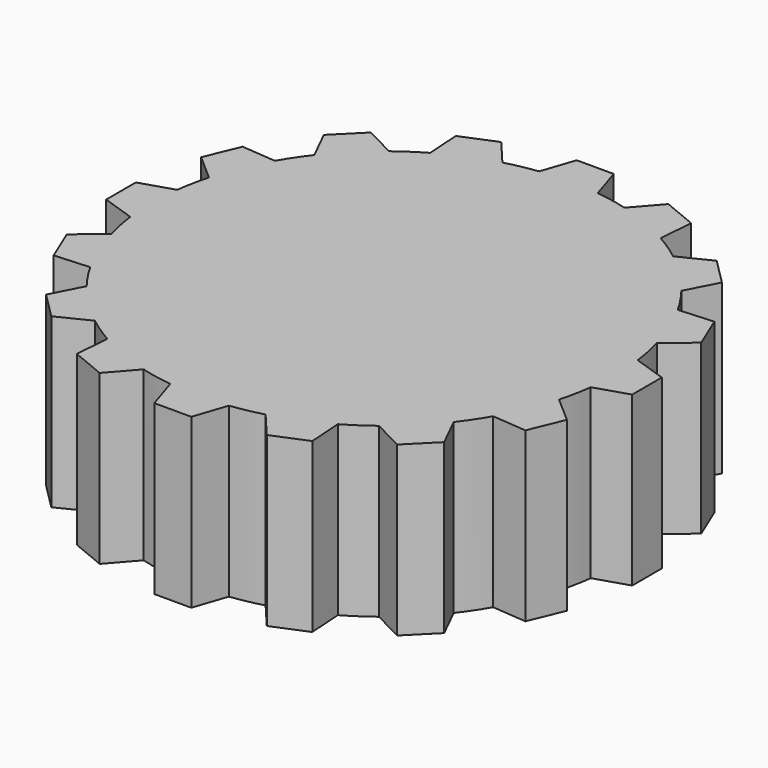
from build123d import *

# Parameters (mm, degrees)
F1_DEPTH = 18.1


with BuildPart() as f1:
    # F0 (on Top) → F1 (new body)
    with BuildSketch(Plane.XY):
        with BuildLine():
            ThreePointArc((24.797365, -3.176582), (24.94929, -1.591519), (25, 0))
            ThreePointArc((25, 0), (24.950482, 1.57272), (24.802124, 3.13921))
            ThreePointArc((24.802124, 3.13921), (24.5233, 4.858782), (24.125403, 6.554762))
            ThreePointArc((24.125403, 6.554762), (23.10419, 9.54968), (21.712851, 12.391614))
            ThreePointArc((21.712851, 12.391614), (20.7972, 13.87359), (19.780568, 15.288203))
            ThreePointArc((19.780568, 15.288203), (17.690984, 17.664345), (15.317994, 19.757507))
            ThreePointArc((15.317994, 19.757507), (13.904914, 20.776269), (12.42432, 21.694153))
            ThreePointArc((12.42432, 21.694153), (9.584486, 23.089773), (6.59111, 24.115498))
            ThreePointArc((6.59111, 24.115498), (4.895732, 24.51595), (3.176582, 24.797365))
            ThreePointArc((3.176582, 24.797365), (0.018837, 24.999993), (-3.13921, 24.802124))
            ThreePointArc((-3.13921, 24.802124), (-4.858782, 24.5233), (-6.554762, 24.125403))
            ThreePointArc((-6.554762, 24.125403), (-9.54968, 23.10419), (-12.391614, 21.712851))
            ThreePointArc((-12.391614, 21.712851), (-13.87359, 20.7972), (-15.288203, 19.780568))
            ThreePointArc((-15.288203, 19.780568), (-17.664345, 17.690984), (-19.757507, 15.317994))
            ThreePointArc((-19.757507, 15.317994), (-20.776269, 13.904914), (-21.694153, 12.42432))
            ThreePointArc((-21.694153, 12.42432), (-23.089773, 9.584486), (-24.115498, 6.59111))
            ThreePointArc((-24.115498, 6.59111), (-24.51595, 4.895732), (-24.797365, 3.176582))
            ThreePointArc((-24.797365, 3.176582), (-24.999993, 0.018837), (-24.802124, -3.13921))
            ThreePointArc((-24.802124, -3.13921), (-24.5233, -4.858782), (-24.125403, -6.554762))
            ThreePointArc((-24.125403, -6.554762), (-23.10419, -9.54968), (-21.712851, -12.391614))
            ThreePointArc((-21.712851, -12.391614), (-20.7972, -13.87359), (-19.780568, -15.288203))
            ThreePointArc((-19.780568, -15.288203), (-17.690984, -17.664345), (-15.317994, -19.757507))
            ThreePointArc((-15.317994, -19.757507), (-13.904914, -20.776269), (-12.42432, -21.694153))
            ThreePointArc((-12.42432, -21.694153), (-9.584486, -23.089773), (-6.59111, -24.115498))
            ThreePointArc((-6.59111, -24.115498), (-4.895732, -24.51595), (-3.176582, -24.797365))
            ThreePointArc((-3.176582, -24.797365), (-0.018837, -24.999993), (3.13921, -24.802124))
            ThreePointArc((3.13921, -24.802124), (4.858782, -24.5233), (6.554762, -24.125403))
            ThreePointArc((6.554762, -24.125403), (9.54968, -23.10419), (12.391614, -21.712851))
            ThreePointArc((12.391614, -21.712851), (13.87359, -20.7972), (15.288203, -19.780568))
            ThreePointArc((15.288203, -19.780568), (17.664345, -17.690984), (19.757507, -15.317994))
            ThreePointArc((19.757507, -15.317994), (20.776269, -13.904914), (21.694153, -12.42432))
            ThreePointArc((21.694153, -12.42432), (23.089773, -9.584486), (24.115498, -6.59111))
            ThreePointArc((24.115498, -6.59111), (24.51595, -4.895732), (24.797365, -3.176582))
        make_face()
        with BuildLine():
            ThreePointArc((24.802124, 3.13921), (24.950482, 1.57272), (25, 0))
            ThreePointArc((25, 0), (24.94929, -1.591519), (24.797365, -3.176582))
            Line((24.797365, -3.176582), (28.354543, -2.044125))
            Line((28.354543, -2.044125), (28.354543, 1.937519))
            Line((28.354543, 1.937519), (24.802124, 3.13921))
        make_face()
        with BuildLine():
            ThreePointArc((21.712851, 12.391614), (23.10419, 9.54968), (24.125403, 6.554762))
            Line((24.125403, 6.554762), (26.978435, 8.962289))
            Line((26.978435, 8.962289), (25.454726, 12.640848))
            Line((25.454726, 12.640848), (21.712851, 12.391614))
        make_face()
        with BuildLine():
            Line((26.937638, -9.06078), (24.115498, -6.59111))
            ThreePointArc((24.115498, -6.59111), (23.089773, -9.584486), (21.694153, -12.42432))
            Line((21.694153, -12.42432), (25.413929, -12.739339))
            Line((25.413929, -12.739339), (26.937638, -9.06078))
        make_face()
        with BuildLine():
            ThreePointArc((15.317994, 19.757507), (17.690984, 17.664345), (19.780568, 15.288203))
            Line((19.780568, 15.288203), (21.495104, 18.604275))
            Line((21.495104, 18.604275), (18.679657, 21.419722))
            Line((18.679657, 21.419722), (15.317994, 19.757507))
        make_face()
        with BuildLine():
            Line((21.419722, -18.679657), (19.757507, -15.317994))
            ThreePointArc((19.757507, -15.317994), (17.664345, -17.690984), (15.288203, -19.780568))
            Line((15.288203, -19.780568), (18.604275, -21.495104))
            Line((18.604275, -21.495104), (21.419722, -18.679657))
        make_face()
        with BuildLine():
            ThreePointArc((6.59111, 24.115498), (9.584486, 23.089773), (12.42432, 21.694153))
            Line((12.42432, 21.694153), (12.739339, 25.413929))
            Line((12.739339, 25.413929), (9.06078, 26.937638))
            Line((9.06078, 26.937638), (6.59111, 24.115498))
        make_face()
        with BuildLine():
            Line((12.640848, -25.454726), (12.391614, -21.712851))
            ThreePointArc((12.391614, -21.712851), (9.54968, -23.10419), (6.554762, -24.125403))
            Line((6.554762, -24.125403), (8.962289, -26.978435))
            Line((8.962289, -26.978435), (12.640848, -25.454726))
        make_face()
        with BuildLine():
            ThreePointArc((-3.13921, 24.802124), (0.018837, 24.999993), (3.176582, 24.797365))
            Line((3.176582, 24.797365), (2.044125, 28.354543))
            Line((2.044125, 28.354543), (-1.937519, 28.354543))
            Line((-1.937519, 28.354543), (-3.13921, 24.802124))
        make_face()
        with BuildLine():
            Line((1.937519, -28.354543), (3.13921, -24.802124))
            ThreePointArc((3.13921, -24.802124), (-0.018837, -24.999993), (-3.176582, -24.797365))
            Line((-3.176582, -24.797365), (-2.044125, -28.354543))
            Line((-2.044125, -28.354543), (1.937519, -28.354543))
        make_face()
        with BuildLine():
            ThreePointArc((-12.391614, 21.712851), (-9.54968, 23.10419), (-6.554762, 24.125403))
            Line((-6.554762, 24.125403), (-8.962289, 26.978435))
            Line((-8.962289, 26.978435), (-12.640848, 25.454726))
            Line((-12.640848, 25.454726), (-12.391614, 21.712851))
        make_face()
        with BuildLine():
            Line((-9.06078, -26.937638), (-6.59111, -24.115498))
            ThreePointArc((-6.59111, -24.115498), (-9.584486, -23.089773), (-12.42432, -21.694153))
            Line((-12.42432, -21.694153), (-12.739339, -25.413929))
            Line((-12.739339, -25.413929), (-9.06078, -26.937638))
        make_face()
        with BuildLine():
            ThreePointArc((-19.757507, 15.317994), (-17.664345, 17.690984), (-15.288203, 19.780568))
            Line((-15.288203, 19.780568), (-18.604275, 21.495104))
            Line((-18.604275, 21.495104), (-21.419722, 18.679657))
            Line((-21.419722, 18.679657), (-19.757507, 15.317994))
        make_face()
        with BuildLine():
            Line((-18.679657, -21.419722), (-15.317994, -19.757507))
            ThreePointArc((-15.317994, -19.757507), (-17.690984, -17.664345), (-19.780568, -15.288203))
            Line((-19.780568, -15.288203), (-21.495104, -18.604275))
            Line((-21.495104, -18.604275), (-18.679657, -21.419722))
        make_face()
        with BuildLine():
            ThreePointArc((-24.115498, 6.59111), (-23.089773, 9.584486), (-21.694153, 12.42432))
            Line((-21.694153, 12.42432), (-25.413929, 12.739339))
            Line((-25.413929, 12.739339), (-26.937638, 9.06078))
            Line((-26.937638, 9.06078), (-24.115498, 6.59111))
        make_face()
        with BuildLine():
            Line((-25.454726, -12.640848), (-21.712851, -12.391614))
            ThreePointArc((-21.712851, -12.391614), (-23.10419, -9.54968), (-24.125403, -6.554762))
            Line((-24.125403, -6.554762), (-26.978435, -8.962289))
            Line((-26.978435, -8.962289), (-25.454726, -12.640848))
        make_face()
        with BuildLine():
            ThreePointArc((-24.802124, -3.13921), (-24.999993, 0.018837), (-24.797365, 3.176582))
            Line((-24.797365, 3.176582), (-28.354543, 2.044125))
            Line((-28.354543, 2.044125), (-28.354543, -1.937519))
            Line((-28.354543, -1.937519), (-24.802124, -3.13921))
        make_face()
    extrude(amount=F1_DEPTH)


solid = f1.part
